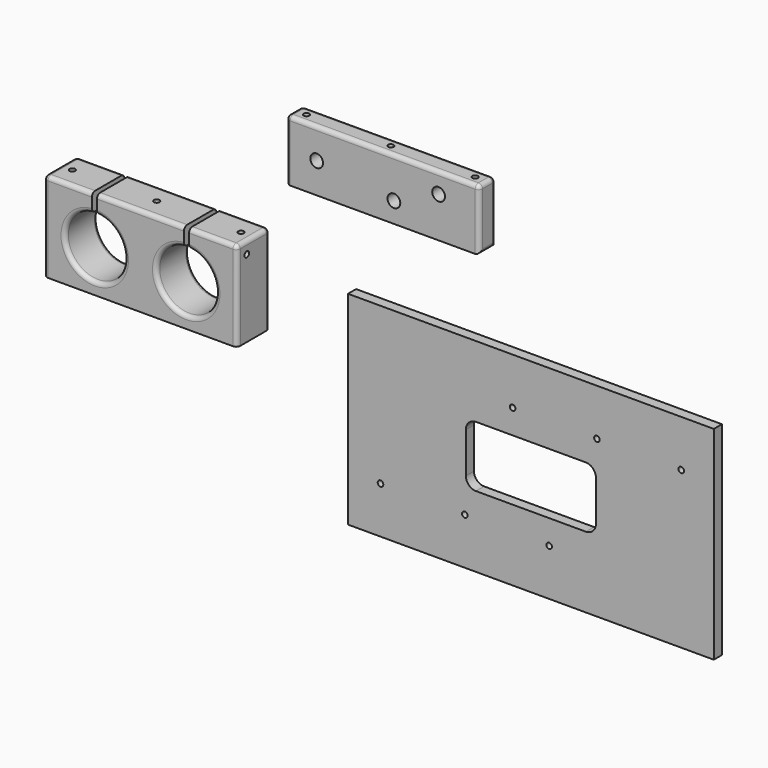
from build123d import *

# Parameters (mm, degrees)
F0_R      = 3.9878
F1_DEPTH  = 12.7
F2_R      = 1.7526
F3_DEPTH  = 38.1
F4_R      = 2.54
F7_DEPTH  = 25.4
F8_R      = 1.7526
F9_DEPTH  = 261.861814
F10_R     = 1.7526
F11_DEPTH = 129.65195
F12_R     = 2.54
F13_W     = 228.6
F13_H     = 127
F13_W_2   = 120.65
F13_H_2   = 12.7
F13_R     = 1.7526
F14_DEPTH = 6.35


with BuildPart() as f1:
    # F0 (on Front) → F1 (new body)
    with BuildSketch(Plane.XZ):
        Polygon((-60.325, -19.05), (60.325, -19.05), (60.325, 6.35), (60.325, 19.05), (47.625, 19.05), (-47.625, 19.05), (-60.325, 19.05), (-60.325, 6.35), align=None)
        with Locations((6.985, -6.35)):
            Circle(F0_R, mode=Mode.SUBTRACT)
        with Locations((-41.275, 0)):
            Circle(F0_R, mode=Mode.SUBTRACT)
        with Locations((34.925, 6.35)):
            Circle(F0_R, mode=Mode.SUBTRACT)
    extrude(amount=F1_DEPTH)

    # F2 (on face) → F3 (cut, through all)
    with BuildSketch(Plane.XY.offset(19.05)):
        with Locations((52.705, -6.35)):
            Circle(F2_R)
        with Locations((0, -6.35)):
            Circle(F2_R)
        with Locations((-52.705, -6.35)):
            Circle(F2_R)
    extrude(amount=-F3_DEPTH, mode=Mode.SUBTRACT)

    # F4
    f4_edges = [f1.edges().sort_by_distance(p)[0] for p in [
        (0, 0, 19.05),
        (0, -12.7, 19.05),
        (-60.325, 0, 0),
        (60.325, 0, 0),
        (60.325, -12.7, 0),
        (-60.325, -12.7, 0),
        (60.325, -6.35, -19.05),
        (60.325, -6.35, 19.05),
        (-60.325, -6.35, -19.05),
        (-60.325, -6.35, 19.05),
    ]]
    fillet(f4_edges, radius=F4_R)


with BuildPart() as f1_1:
    # F5: moved
    add(f1.part.moved(Location((61.19995, 0, 45.02489))))


with BuildPart() as f7:
    # F6 (on Front) → F7 (new body)
    with BuildSketch(Plane.XZ):
        with BuildLine():
            Line((-140.335864, -65.57606), (-19.685864, -65.57606))
            Line((-19.685864, -65.57606), (-19.685864, -9.69606))
            Line((-19.685864, -9.69606), (-49.657864, -9.69606))
            Line((-49.657864, -9.69606), (-49.657864, -20.957504))
            ThreePointArc((-49.657864, -20.957504), (-51.627066, -57.955074), (-52.832864, -20.924762))
            Line((-52.832864, -20.924762), (-52.832864, -9.69606))
            Line((-52.832864, -9.69606), (-107.188864, -9.69606))
            Line((-107.188864, -9.69606), (-107.188864, -20.924762))
            ThreePointArc((-107.188864, -20.924762), (-108.394662, -57.955074), (-110.363864, -20.957504))
            Line((-110.363864, -20.957504), (-110.363864, -9.69606))
            Line((-110.363864, -9.69606), (-140.335864, -9.69606))
            Line((-140.335864, -9.69606), (-140.335864, -65.57606))
        make_face()
    extrude(amount=F7_DEPTH)

    # F8 (on face) → F9 (cut, through all)
    with BuildSketch(Plane(origin=(-140.335864, 0, 0), x_dir=(0, -1, 0), z_dir=(-1, 0, 0))):
        with Locations((17.78, -17.31606)):
            Circle(F8_R)
    extrude(amount=-F9_DEPTH, mode=Mode.SUBTRACT)

    # F10 (on face) → F11 (cut, through all)
    with BuildSketch(Plane(origin=(0, 0, -65.57606), x_dir=(1, 0, 0), z_dir=(0, 0, -1))):
        with Locations((-132.715864, 12.7)):
            Circle(F10_R)
        with Locations((-80.010864, 12.7)):
            Circle(F10_R)
        with Locations((-27.305864, 12.7)):
            Circle(F10_R)
    extrude(amount=-F11_DEPTH, mode=Mode.SUBTRACT)

    # F12
    f12_edges = [f7.edges().sort_by_distance(p)[0] for p in [
        (-34.671864, -25.4, -9.69606),
        (-80.010864, -25.4, -9.69606),
        (-125.349864, -25.4, -9.69606),
        (-19.685864, -25.4, -37.63606),
        (-140.335864, -25.4, -37.63606),
        (-140.335864, 0, -37.63606),
        (-125.349864, 0, -9.69606),
        (-80.010864, 0, -9.69606),
        (-34.671864, 0, -9.69606),
        (-19.685864, 0, -37.63606),
        (-140.335864, -12.7, -9.69606),
        (-19.685864, -12.7, -9.69606),
        (-108.394662, -25.4, -57.955074),
        (-51.627066, -25.4, -57.955074),
        (-51.627066, 0, -57.955074),
        (-108.394662, 0, -57.955074),
    ]]
    fillet(f12_edges, radius=F12_R)


with BuildPart() as f14:
    # F13 (on Front) → F14 (new body)
    with BuildSketch(Plane.XZ):
        with Locations((148.717571, -89.529962)):
            Rectangle(F13_W, F13_H)
        with Locations((107.442571, -123.819962)):
            Rectangle(F13_W_2, F13_H_2, mode=Mode.SUBTRACT)
        with BuildLine():
            Line((114.427571, -70.479962), (183.007571, -70.479962))
            ThreePointArc((183.007571, -70.479962), (187.497699, -72.339834), (189.357571, -76.829962))
            Line((189.357571, -76.829962), (189.357571, -102.229962))
            ThreePointArc((189.357571, -102.229962), (187.497699, -106.72009), (183.007571, -108.579962))
            Line((183.007571, -108.579962), (114.427571, -108.579962))
            ThreePointArc((114.427571, -108.579962), (109.937442, -106.72009), (108.077571, -102.229962))
            Line((108.077571, -102.229962), (108.077571, -76.829962))
            ThreePointArc((108.077571, -76.829962), (109.937442, -72.339834), (114.427571, -70.479962))
        make_face(mode=Mode.SUBTRACT)
        with Locations((189.992571, -55.239962)):
            Rectangle(F13_W_2, F13_H_2, mode=Mode.SUBTRACT)
        with Locations((189.992571, -55.239962)):
            Rectangle(F13_W_2, F13_H_2)
        with Locations((137.287571, -55.239962)):
            Circle(F13_R, mode=Mode.SUBTRACT)
        with Locations((189.992571, -55.239962)):
            Circle(F13_R, mode=Mode.SUBTRACT)
        with Locations((242.697571, -55.239962)):
            Circle(F13_R, mode=Mode.SUBTRACT)
        with Locations((107.442571, -123.819962)):
            Rectangle(F13_W_2, F13_H_2)
        with Locations((54.737571, -123.819962)):
            Circle(F13_R, mode=Mode.SUBTRACT)
        with Locations((107.442571, -123.819962)):
            Circle(F13_R, mode=Mode.SUBTRACT)
        with Locations((160.147571, -123.819962)):
            Circle(F13_R, mode=Mode.SUBTRACT)
    extrude(amount=F14_DEPTH)


with BuildPart() as f15_1:
    # F15: copy of F1
    add(f1_1.part.moved(Location((-142.40818, 0, 0))))


solid = Compound([f1_1.part, f7.part, f14.part])
